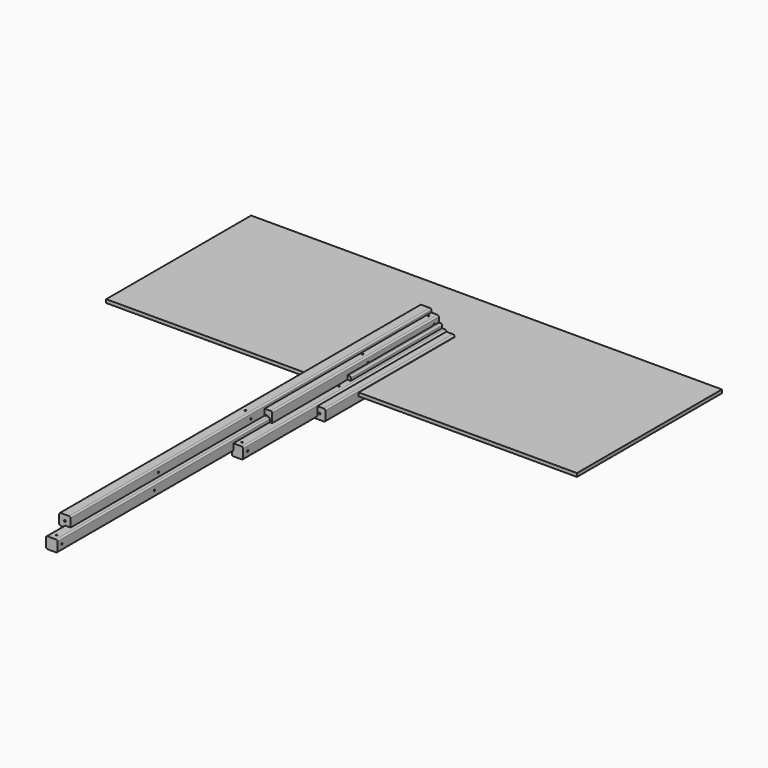
from build123d import *

# Parameters (mm, degrees)
F0_W             = 40
F0_H             = 40
F1_DEPTH         = 890
F2_R             = 5
F5_D             = 6
F5_DEPTH         = 52
F5_TIP           = 1.8025818571
F5_ON_F3_D       = 6
F5_ON_F3_DEPTH   = 52
F5_ON_F3_TIP     = 1.8025818571
F6_W             = 40
F6_H             = 40
F7_DEPTH         = 400
F8_R             = 5
F10_D            = 6
F11_W            = 80
F11_H            = 40
F12_DEPTH        = 565
F13_R            = 5
F15_D            = 6
F16_W            = 40
F16_H            = 40
F17_DEPTH        = 565
F18_R            = 5
F20_D            = 6
F21_W            = 40
F21_H            = 40
F22_DEPTH        = 1660
F23_R            = 5
F26_D            = 6
F26_DEPTH        = 52
F26_TIP          = 1.8025818571
F26_ON_F24_D     = 6
F26_ON_F24_DEPTH = 52
F26_ON_F24_TIP   = 1.8025818571
F27_W            = 40
F27_H            = 40
F28_DEPTH        = 250
F29_R            = 5
F31_D            = 6
F32_W            = 40
F32_H            = 40
F33_DEPTH        = 730
F34_R            = 5
F38_D            = 6
F38_ON_F36_D     = 6
F38_ON_F35_D     = 6
F39_W            = 40
F39_H            = 40
F40_DEPTH        = 1580
F41_R            = 5
F44_D            = 6
F44_ON_F42_D     = 6
F46_D            = 6
F47_W            = 1650
F47_H            = 635
F48_DEPTH        = 12


with BuildPart() as f1:
    # F0 (on Front) → F1 (new body)
    with BuildSketch(Plane.XZ):
        with Locations((6.2017980963, 6.0109066256)):
            Rectangle(F0_W, F0_H)
    extrude(amount=F1_DEPTH)

    # F2
    f2_edges = [f1.edges().sort_by_distance(p)[0] for p in [
        (-13.798202, -445, 26.010907),
        (26.201798, -445, 26.010907),
        (26.201798, -445, -13.989093),
        (-13.798202, -445, -13.989093),
    ]]
    fillet(f2_edges, radius=F2_R)

    # F5
    with Locations(Plane.YZ.offset(26.2017980963)):
        with Locations((-870, 6.0109066256), (-465, 6.0109066256), (-425, 6.0109066256), (-20, 6.0109066256)):
            Hole(F5_D / 2, depth=F5_DEPTH)
            with Locations((0, 0, -(F5_DEPTH + F5_TIP / 2))):  # 118° drill point
                Cone(0, F5_D / 2, F5_TIP, mode=Mode.SUBTRACT)

    # F5 on F3
    with Locations(Plane.XY.offset(26.0109066256)):
        with Locations((6.2017980963, -445), (6.2017980963, -20), (6.2017980963, -870)):
            Hole(F5_ON_F3_D / 2, depth=F5_ON_F3_DEPTH)
            with Locations((0, 0, -(F5_ON_F3_DEPTH + F5_ON_F3_TIP / 2))):  # 118° drill point
                Cone(0, F5_ON_F3_D / 2, F5_ON_F3_TIP, mode=Mode.SUBTRACT)


with BuildPart() as f7:
    # F6 (on Front) → F7 (new body)
    with BuildSketch(Plane.XZ):
        with Locations((-8.575927201, 20)):
            Rectangle(F6_W, F6_H)
    extrude(amount=F7_DEPTH)

    # F8
    f8_edges = [f7.edges().sort_by_distance(p)[0] for p in [
        (-28.575927, -200, 40),
        (11.424073, -200, 40),
        (11.424073, -200, 0),
        (-28.575927, -200, 0),
    ]]
    fillet(f8_edges, radius=F8_R)

    # F10 (through all)
    with Locations(Plane.XZ.offset(400)):
        with Locations((-8.575927201, 20)):
            Hole(F10_D / 2)


with BuildPart() as f12:
    # F11 (on Front) → F12 (new body)
    with BuildSketch(Plane.XZ):
        with Locations((14.287690632, -0.0063768949)):
            Rectangle(F11_W, F11_H)
    extrude(amount=F12_DEPTH)

    # F13
    f13_edges = [f12.edges().sort_by_distance(p)[0] for p in [
        (-25.712309, -282.5, 19.993623),
        (54.287691, -282.5, 19.993623),
        (54.287691, -282.5, -20.006377),
        (-25.712309, -282.5, -20.006377),
    ]]
    fillet(f13_edges, radius=F13_R)

    # F15 (through all)
    with Locations(Plane.XZ.offset(565)):
        with Locations((-5.712309368, 0), (34.287690632, 0)):
            Hole(F15_D / 2)


with BuildPart() as f17:
    # F16 (on Front) → F17 (new body)
    with BuildSketch(Plane.XZ):
        with Locations((-33.2037922926, 35.9010571885)):
            Rectangle(F16_W, F16_H)
    extrude(amount=F17_DEPTH)

    # F18
    f18_edges = [f17.edges().sort_by_distance(p)[0] for p in [
        (-53.203792, -282.5, 55.901057),
        (-13.203792, -282.5, 55.901057),
        (-13.203792, -282.5, 15.901057),
        (-53.203792, -282.5, 15.901057),
    ]]
    fillet(f18_edges, radius=F18_R)

    # F20 (through all)
    with Locations(Plane.XZ.offset(565)):
        with Locations((-33.2037922926, 35.9010571885)):
            Hole(F20_D / 2)


with BuildPart() as f22:
    # F21 (on Front) → F22 (new body)
    with BuildSketch(Plane.XZ):
        with Locations((-28.6424630322, 20.8013598619)):
            Rectangle(F21_W, F21_H)
    extrude(amount=F22_DEPTH)

    # F23
    f23_edges = [f22.edges().sort_by_distance(p)[0] for p in [
        (-48.642463, -830, 40.80136),
        (-8.642463, -830, 40.80136),
        (-8.642463, -830, 0.80136),
        (-48.642463, -830, 0.80136),
    ]]
    fillet(f23_edges, radius=F23_R)

    # F26
    with Locations(Plane.XY.offset(40.8013598619)):
        with Locations((-28.6424630322, -1640), (-28.6424630322, -1255), (-28.6424630322, -830), (-28.6424630322, -405), (-28.6424630322, -20)):
            Hole(F26_D / 2, depth=F26_DEPTH)
            with Locations((0, 0, -(F26_DEPTH + F26_TIP / 2))):  # 118° drill point
                Cone(0, F26_D / 2, F26_TIP, mode=Mode.SUBTRACT)

    # F26 on F24
    with Locations(Plane.YZ.offset(-8.6424630322)):
        with Locations((-20, 20.0124457479), (-425, 20.8013598619), (-830, 20.8013598619), (-1235, 20.8013598619), (-1640, 20.8013598619)):
            Hole(F26_ON_F24_D / 2, depth=F26_ON_F24_DEPTH)
            with Locations((0, 0, -(F26_ON_F24_DEPTH + F26_ON_F24_TIP / 2))):  # 118° drill point
                Cone(0, F26_ON_F24_D / 2, F26_ON_F24_TIP, mode=Mode.SUBTRACT)


with BuildPart() as f28:
    # F27 (on Front) → F28 (new body)
    with BuildSketch(Plane.XZ):
        with Locations((-31.8622253835, 38.6791004012)):
            Rectangle(F27_W, F27_H)
    extrude(amount=F28_DEPTH)

    # F29
    f29_edges = [f28.edges().sort_by_distance(p)[0] for p in [
        (-51.862225, -125, 58.6791),
        (-11.862225, -125, 58.6791),
        (-11.862225, -125, 18.6791),
        (-51.862225, -125, 18.6791),
    ]]
    fillet(f29_edges, radius=F29_R)

    # F31 (through all)
    with Locations(Plane.XZ.offset(250)):
        with Locations((-31.8622253835, 38.6791004012)):
            Hole(F31_D / 2)


with BuildPart() as f33:
    # F32 (on Front) → F33 (new body)
    with BuildSketch(Plane.XZ):
        with Locations((-20.0747975614, 42.1697697723)):
            Rectangle(F32_W, F32_H)
    extrude(amount=F33_DEPTH)

    # F34
    f34_edges = [f33.edges().sort_by_distance(p)[0] for p in [
        (-40.074798, -365, 62.16977),
        (-0.074798, -365, 62.16977),
        (-0.074798, -365, 22.16977),
        (-40.074798, -365, 22.16977),
    ]]
    fillet(f34_edges, radius=F34_R)

    # F38 (through all)
    with Locations(Plane.YZ.offset(-0.0747975614)):
        with Locations((-20, 42.1697697723), (-310, 42.1697697723)):
            Hole(F38_D / 2)

    # F38 on F36 (through all)
    with Locations(Plane.XY.offset(62.1697697723)):
        with Locations((-20.0747975614, -20), (-20.0747975614, -310)):
            Hole(F38_ON_F36_D / 2)

    # F38 on F35 (through all)
    with Locations(Plane.XZ.offset(730)):
        with Locations((-20.0747975614, 42.1697697723)):
            Hole(F38_ON_F35_D / 2)


with BuildPart() as f40:
    # F39 (on Front) → F40 (new body)
    with BuildSketch(Plane.XZ):
        with Locations((-46.5399594977, 54.5145901143)):
            Rectangle(F39_W, F39_H)
    extrude(amount=F40_DEPTH)

    # F41
    f41_edges = [f40.edges().sort_by_distance(p)[0] for p in [
        (-66.539959, -790, 74.51459),
        (-26.539959, -790, 74.51459),
        (-26.539959, -790, 34.51459),
        (-66.539959, -790, 34.51459),
    ]]
    fillet(f41_edges, radius=F41_R)

    # F44 (through all)
    with Locations(Plane.YZ.offset(-26.5399594977)):
        with Locations((-1195, 54.5145901143), (-790, 54.5145901143), (-385, 54.5145901143)):
            Hole(F44_D / 2)

    # F44 on F42 (through all)
    with Locations(Plane.XZ.offset(1580)):
        with Locations((-46.5399594977, 54.5145901143)):
            Hole(F44_ON_F42_D / 2)

    # F46 (through all)
    with Locations(Plane.XY.offset(74.5145901143)):
        with Locations((-46.5088933706, -790)):
            Hole(F46_D / 2)


with BuildPart() as f48:
    # F47 (on Top) → F48 (new body)
    with BuildSketch(Plane.XY):
        with Locations((-5.7365942001, -101.5002168322)):
            Rectangle(F47_W, F47_H)
    extrude(amount=F48_DEPTH)


solid = Compound([f1.part, f7.part, f12.part, f17.part, f22.part, f28.part, f33.part, f40.part, f48.part])
